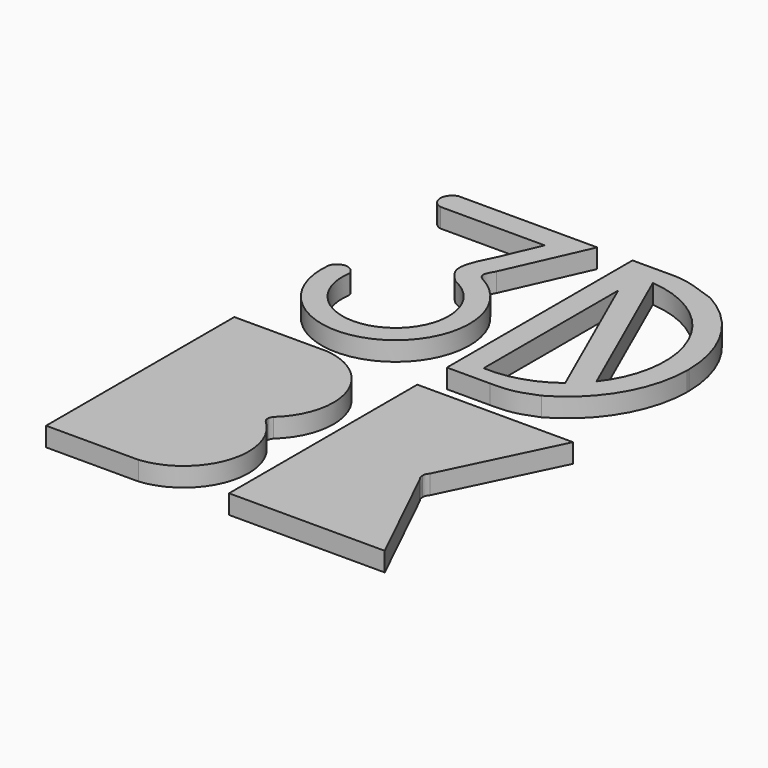
from build123d import *

# Parameters (mm, degrees)
F1_DEPTH = 2.54


with BuildPart() as f1:
    # F0 (on Top) → F1 (new body)
    with BuildSketch(Plane.XY):
        with BuildLine():
            Line((-7.5453622267, 22.6989928633), (-2.7351737954, 33.4806852043))
            Line((-2.7351737954, 33.4806852043), (-21.1572051048, 33.4806852043))
            ThreePointArc((-21.1572051048, 33.4806852043), (-22.3890896886, 31.9530339911), (-21.1572051048, 30.425382778))
            Line((-21.1572051048, 30.425382778), (-7.2931135073, 30.425382778))
            Line((-7.2931135073, 30.425382778), (-9.4495294616, 25.3879800439))
            add(Edge.make_bspline(
                [(-9.4495294616, 25.3879800439), (-10.3302159731, 23.6726618568), (-11.8808970013, 20.6523914937), (-10.1830913379, 19.0052173822), (-9.4495294616, 18.2935316116)],
                knots=[0, 0, 0, 0, 0.5679353107, 1, 1, 1, 1], degree=3))
            ThreePointArc((-9.4495294616, 18.2935316116), (-8.744805336, 5.5966861339), (-19.1914085299, 12.8475483507))
            ThreePointArc((-19.1914085299, 12.8475483507), (-20.5873309935, 13.9352987723), (-21.9832534571, 12.8475483507))
            ThreePointArc((-21.9832534571, 12.8475483507), (-7.5716745464, 3.0830422585), (-7.6246123494, 20.4909825018))
            add(Edge.make_bspline(
                [(-7.5453622267, 22.6989928633), (-7.8757345138, 22.1285959519), (-8.4306078493, 21.1705917574), (-7.8693930702, 20.681447967), (-7.6246123494, 20.4909825018)],
                knots=[0, 0, 0, 0, 0.5706142153, 0.9583691649, 0.9583691649, 0.9583691649, 0.9583691649], degree=3))
        make_face()
    extrude(amount=F1_DEPTH)


with BuildPart() as f1b:
    # F0 (on Top) → F1, piece 2 (new body)
    with BuildSketch(Plane.XY):
        with BuildLine():
            Line((7.6673883013, 33.4806852043), (1.9535701722, 33.4806852043))
            Line((1.9535701722, 33.4806852043), (1.9535701722, 2.6171170175))
            Line((1.9535701722, 2.6171170175), (7.6673883013, 2.6171170175))
            add(Edge.make_bspline(
                [(13.5640528841, 3.8033656441), (12.5585792201, 3.4051600509), (10.5947152477, 2.6273956539), (8.6274422547, 2.6204880265), (7.6673883013, 2.6171170175)],
                knots=[0, 0, 0, 0, 0.5119874279, 1, 1, 1, 1], degree=3))
            ThreePointArc((13.5640528841, 3.8033656441), (19.5771167094, 9.6257290209), (21.8482203782, 17.6817168551))
            Line((21.8482203782, 17.6817168551), (21.8482203782, 18.0489011109))
            ThreePointArc((21.8482203782, 18.0489011109), (19.5771167094, 26.1048889451), (13.5640528841, 31.9272523219))
            add(Edge.make_bspline(
                [(13.5640528841, 31.9272523219), (12.0188625137, 32.4806988664), (9.5071250594, 33.3803371514), (8.1786150797, 33.4528004476), (7.6673883013, 33.4806852043)],
                knots=[0, 0, 0, 0, 0.6151878524, 1, 1, 1, 1], degree=3))
        make_face()
        with BuildLine():
            ThreePointArc((13.7255926495, 7.5781230036), (9.6198125415, 5.4448354943), (5.0269701927, 4.8843490524))
            Line((5.0269701927, 4.8843490524), (5.0269701927, 27.2558980547))
            Line((5.0269701927, 27.2558980547), (13.7255926495, 7.5781230036))
        make_face(mode=Mode.SUBTRACT)
        with BuildLine():
            ThreePointArc((6.7811124511, 30.8286115181), (17.6657420253, 23.1223286699), (16.0391214303, 9.8854082672))
            Line((16.0391214303, 9.8854082672), (6.7811124511, 30.8286115181))
        make_face(mode=Mode.SUBTRACT)
    extrude(amount=F1_DEPTH)


with BuildPart() as f1c:
    # F0 (on Top) → F1, piece 3 (new body)
    with BuildSketch(Plane.XY):
        with BuildLine():
            Line((1.9535701722, -33.6182080209), (21.8482203782, -33.6182080209))
            Line((21.8482203782, -33.6182080209), (22.670282051, -33.6182080209))
            Line((22.670282051, -33.6182080209), (15.4876355082, -18.8196848612))
            add(Edge.make_bspline(
                [(15.4876355082, -18.8196848612), (15.371168109, -18.6560732739), (15.159509665, -18.3587387901), (15.1679139181, -18.0863425739), (15.171693638, -17.9638353875)],
                knots=[0, 0, 0, 0, 0.550261057, 1, 1, 1, 1], degree=3))
            add(Edge.make_bspline(
                [(15.4876355082, -17.1079859138), (15.371168109, -17.2715975011), (15.159509665, -17.5689319849), (15.1679139181, -17.8413282011), (15.171693638, -17.9638353875)],
                knots=[0, 0, 0, 0, 0.550261057, 1, 1, 1, 1], degree=3))
            Line((15.4876355082, -17.1079859138), (22.670282051, -2.3094627541))
            Line((22.670282051, -2.3094627541), (1.9535701722, -2.3094627541))
            Line((1.9535701722, -2.3094627541), (1.9535701722, -33.6182080209))
        make_face()
    extrude(amount=F1_DEPTH)


with BuildPart() as f1d:
    # F0 (on Top) → F1, piece 4 (new body)
    with BuildSketch(Plane.XY):
        with BuildLine():
            Line((-22.3890896886, -2.3094627541), (-22.3890896886, -33.6182080209))
            Line((-22.3890896886, -33.6182080209), (-10.0687015802, -33.6182080209))
            ThreePointArc((-10.0687015802, -33.6182080209), (-2.7489802993, -27.706179837), (-5.1699676551, -18.6139184516))
            add(Edge.make_bspline(
                [(-5.1699676551, -18.6139184516), (-5.2577137292, -18.4897791328), (-5.4173213156, -18.2639732804), (-5.4122223799, -18.0570156997), (-5.4099266417, -17.9638353875)],
                knots=[0, 0, 0, 0, 0.5497612996, 1, 1, 1, 1], degree=3))
            add(Edge.make_bspline(
                [(-5.1699676551, -17.3137523234), (-5.2577137292, -17.4378916422), (-5.4173213156, -17.6636974946), (-5.4122223799, -17.8706550753), (-5.4099266417, -17.9638353875)],
                knots=[0, 0, 0, 0, 0.5497612996, 1, 1, 1, 1], degree=3))
            ThreePointArc((-5.1699676551, -17.3137523234), (-2.7489802993, -8.221490938), (-10.0687015802, -2.3094627541))
            Line((-10.0687015802, -2.3094627541), (-22.3890896886, -2.3094627541))
        make_face()
    extrude(amount=F1_DEPTH)


solid = Compound([f1.part, f1b.part, f1c.part, f1d.part])
